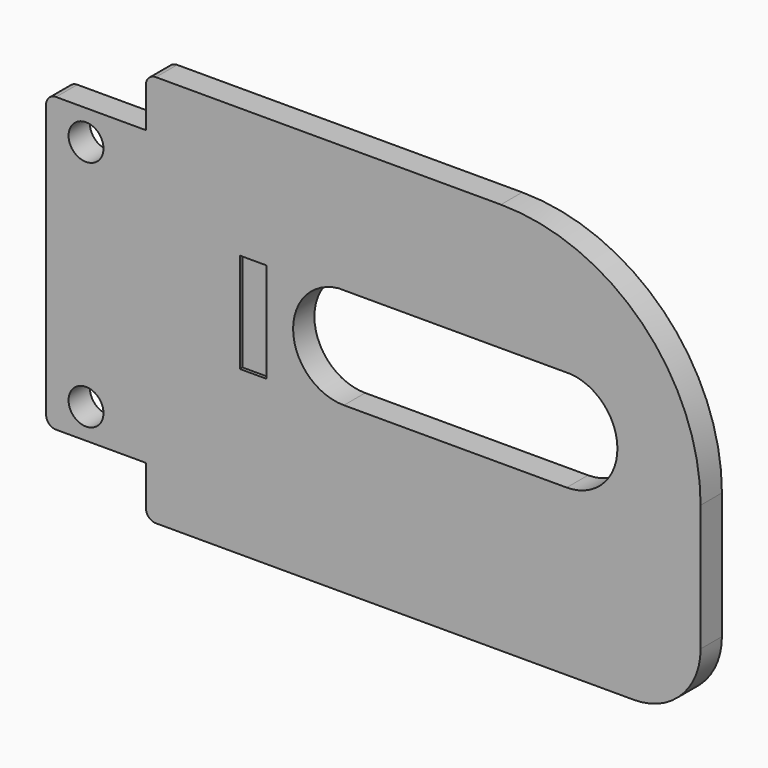
from build123d import *

# Parameters (mm, degrees)
F1_DEPTH = 8
F3_D     = 10.5
F4_W     = 8
F4_H     = 30
F5_DEPTH = 1


with BuildPart() as f1:
    # F0 (on Front) → F1 (new body)
    with BuildSketch(Plane.XZ):
        with BuildLine():
            Line((-65.3333333333, -59), (78.3333333333, -59))
            ThreePointArc((78.3333333333, -59), (92.4754689571, -53.1421356237), (98.3333333333, -39))
            Line((98.3333333333, -39), (98.3333333333, -1))
            ThreePointArc((98.3333333333, -1), (80.7597402045, 41.4264068712), (38.3333333333, 59))
            Line((38.3333333333, 59), (-65.3333333333, 59))
            ThreePointArc((-65.3333333333, 59), (-67.4546536769, 58.1213203436), (-68.3333333333, 56))
            Line((-68.3333333333, 56), (-68.3333333333, 44))
            Line((-68.3333333333, 44), (-95.3333333333, 44))
            ThreePointArc((-95.3333333333, 44), (-97.4546536769, 43.1213203436), (-98.3333333333, 41))
            Line((-98.3333333333, 41), (-98.3333333333, -41))
            ThreePointArc((-98.3333333333, -41), (-97.4546536769, -43.1213203436), (-95.3333333333, -44))
            Line((-95.3333333333, -44), (-68.3333333333, -44))
            Line((-68.3333333333, -44), (-68.3333333333, -56))
            ThreePointArc((-68.3333333333, -56), (-67.4546536769, -58.1213203436), (-65.3333333333, -59))
        make_face()
        with BuildLine():
            ThreePointArc((-8.8602150538, -9.4115832066), (-24.0880948126, 5.0173333325), (-10.5, 21))
            Line((-10.5, 21), (59.5, 21))
            ThreePointArc((59.5, 21), (73.3170992075, 5.1234555789), (58.0950907734, -9.4115832066))
            Line((58.0950907734, -9.4115832066), (-8.8602150538, -9.4115832066))
        make_face(mode=Mode.SUBTRACT)
    extrude(amount=-F1_DEPTH)

    # F3 (through all)
    with Locations(Plane.XZ):
        with Locations((-86.3333333333, 35), (-86.3333333333, -35)):
            Hole(F3_D / 2)

    # F4 (on face) → F5 (cut)
    with BuildSketch(Plane.XZ):
        with Locations((-36.1102150538, 5.0173333325)):
            Rectangle(F4_W, F4_H)
    extrude(amount=-F5_DEPTH, mode=Mode.SUBTRACT)


solid = f1.part
